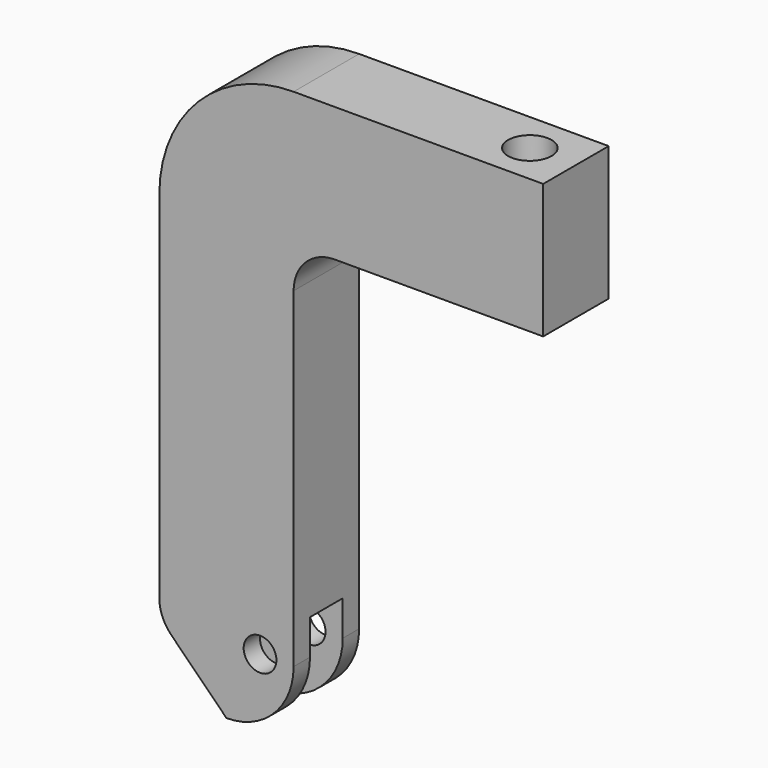
from build123d import *

# Parameters (mm, degrees)
F0_R     = 5.08
F1_DEPTH = 12.7
F3_D     = 13.4874
F4_W     = 6.35
F4_H     = 31.75
F5_DEPTH = 50.8


with BuildPart() as f1:
    # F0 (on Front) → F1 (new body, symmetric)
    with BuildSketch(Plane.XZ):
        with BuildLine():
            Line((20.828, -68.072), (20.828, 34.544))
            ThreePointArc((20.828, 34.544), (24.547744, 43.524256), (33.528, 47.244))
            Line((33.528, 47.244), (98.2345, 47.244))
            Line((98.2345, 47.244), (98.2345, 88.9))
            Line((98.2345, 88.9), (20.828, 88.9))
            ThreePointArc((20.828, 88.9), (-8.62724, 76.69924), (-20.828, 47.244))
            Line((-20.828, 47.244), (-20.828, -62.811488))
            ThreePointArc((-20.828, -62.811488), (-19.86127, -67.671567), (-17.108256, -71.791744))
            Line((-17.108256, -71.791744), (0, -88.9))
            ThreePointArc((0, -88.9), (14.72762, -82.79962), (20.828, -68.072))
        make_face()
        with Locations((10.414, -68.072)):
            Circle(F0_R, mode=Mode.SUBTRACT)
    extrude(amount=F1_DEPTH, both=True)

    # F3 (through all)
    with Locations(Plane(origin=(0, 0, 0), x_dir=(1, 0, 0), z_dir=(0, 0, -1))):
        with Locations((83.947, 0)):
            Hole(F3_D / 2)

    # F4 (on Right) → F5 (cut, symmetric)
    with BuildSketch(Plane.YZ):
        with Locations((3.175, -73.025)):
            Rectangle(F4_W, F4_H)
        with Locations((-3.175, -73.025)):
            Rectangle(F4_W, F4_H)
    extrude(amount=F5_DEPTH, both=True, mode=Mode.SUBTRACT)


solid = f1.part
